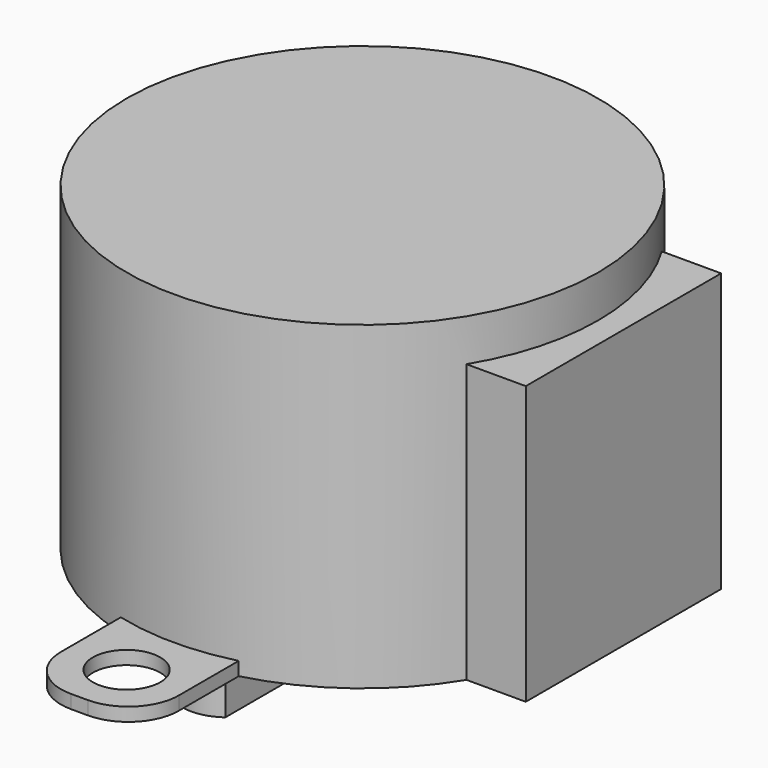
from build123d import *

# Parameters (mm, degrees)
CYLINDER017_R     = 2
CYLINDER017_DEPTH = 20
CYLINDER016_R     = 2
CYLINDER016_DEPTH = 20
CYLINDER019_R     = 4.5
CYLINDER019_DEPTH = 19.5
BOX013_W          = 7
BOX013_H          = 42
BOX013_DEPTH      = 0.8
FILLET012_R       = 3
FILLET013_R       = 3
FILLET014_R       = 3
FILLET015_R       = 3
BOX012_W          = 10
BOX012_H          = 14.5
BOX012_DEPTH      = 16.5
CYLINDER015_R     = 14
CYLINDER015_DEPTH = 19
BOX014_W          = 10
BOX014_H          = 10
BOX014_DEPTH      = 10
BOX015_W          = 10
BOX015_H          = 10
BOX015_DEPTH      = 10
CYLINDER018_R     = 2.7
CYLINDER018_DEPTH = 28


with BuildPart() as cylinder017:
    # Cylinder017 → Cylinder017 (new body)
    with BuildSketch(Plane(origin=(0, -17.5, 14), x_dir=(1, 0, 0), z_dir=(0, 0, 1))):
        Circle(CYLINDER017_R)
    extrude(amount=CYLINDER017_DEPTH)


with BuildPart() as cylinder016:
    # Cylinder016 → Cylinder016 (new body)
    with BuildSketch(Plane(origin=(0, 17.5, 14), x_dir=(1, 0, 0), z_dir=(0, 0, 1))):
        Circle(CYLINDER016_R)
    extrude(amount=CYLINDER016_DEPTH)


with BuildPart() as shaft_boss003:
    # Cylinder019 → Cylinder019 (new body)
    with BuildSketch(Plane(origin=(-8, 0, 1), x_dir=(1, 0, 0), z_dir=(0, 0, 1))):
        Circle(CYLINDER019_R)
    extrude(amount=CYLINDER019_DEPTH)


with BuildPart() as fillet015:
    # Box013 → Box013 (new body)
    with BuildSketch(Plane(origin=(-3.5, -21, 18.2), x_dir=(1, 0, 0), z_dir=(0, 0, 1))):
        with Locations((3.5, 21)):
            Rectangle(BOX013_W, BOX013_H)
    extrude(amount=BOX013_DEPTH)

    # Fillet012
    fillet012_edges = [fillet015.edges().sort_by_distance(p)[0] for p in [
        (3.5, -21, 18.6),
    ]]
    fillet(fillet012_edges, radius=FILLET012_R)

    # Fillet013
    fillet013_edges = [fillet015.edges().sort_by_distance(p)[0] for p in [
        (-3.5, -21, 18.6),
    ]]
    fillet(fillet013_edges, radius=FILLET013_R)

    # Fillet014
    fillet014_edges = [fillet015.edges().sort_by_distance(p)[0] for p in [
        (-3.5, 21, 18.6),
    ]]
    fillet(fillet014_edges, radius=FILLET014_R)

    # Fillet015
    fillet015_edges = [fillet015.edges().sort_by_distance(p)[0] for p in [
        (3.5, 21, 18.6),
    ]]
    fillet(fillet015_edges, radius=FILLET015_R)


with BuildPart() as cube012:
    # Box012 → Box012 (new body)
    with BuildSketch(Plane(origin=(5.5, -7.25, 2.5), x_dir=(1, 0, 0), z_dir=(0, 0, 1))):
        with Locations((5, 7.25)):
            Rectangle(BOX012_W, BOX012_H)
    extrude(amount=BOX012_DEPTH)


with BuildPart() as motor_body003:
    # Cylinder015 → Cylinder015 (new body)
    with BuildSketch(Plane.XY):
        Circle(CYLINDER015_R)
    extrude(amount=CYLINDER015_DEPTH)

    # Fusion012: union Cube012
    add(cube012.part)

    # Fusion013: union Fillet015
    add(fillet015.part)

    # Fusion014: union shaft-boss003
    add(shaft_boss003.part)

    # Cut014: cut Cylinder016
    add(cylinder016.part, mode=Mode.SUBTRACT)

    # Cut015: cut Cylinder017
    add(cylinder017.part, mode=Mode.SUBTRACT)


with BuildPart() as cube014:
    # Box014 → Box014 (new body)
    with BuildSketch(Plane(origin=(-6.4, -5, 22.5), x_dir=(1, 0, 0), z_dir=(0, 0, 1))):
        with Locations((5, 5)):
            Rectangle(BOX014_W, BOX014_H)
    extrude(amount=BOX014_DEPTH)


with BuildPart() as cube015:
    # Box015 → Box015 (new body)
    with BuildSketch(Plane(origin=(-19.6, -5, 22.5), x_dir=(1, 0, 0), z_dir=(0, 0, 1))):
        with Locations((5, 5)):
            Rectangle(BOX015_W, BOX015_H)
    extrude(amount=BOX015_DEPTH)


with BuildPart() as obj1:
    # Cylinder018 → Cylinder018 (new body)
    with BuildSketch(Plane(origin=(-8, 0, 1), x_dir=(1, 0, 0), z_dir=(0, 0, 1))):
        Circle(CYLINDER018_R)
    extrude(amount=CYLINDER018_DEPTH)

    # Cut012: cut Cube015
    add(cube015.part, mode=Mode.SUBTRACT)

    # Cut013: cut Cube014
    add(cube014.part, mode=Mode.SUBTRACT)

    # Fusion015: union motor-body003
    add(motor_body003.part)


with BuildPart() as obj1_1:
    # Fusion015 placement: moved
    add(obj1.part.moved(Location((7.9, 7, 7))))


with BuildPart() as obj2:
    # Part__Mirroring: instance of obj1
    add(obj1_1.part.mirror(Plane(origin=(0, 0, 0), x_dir=(0, 1, 0), z_dir=(0, 0, 1))))


with BuildPart() as obj2_1:
    # Part__Mirroring placement: moved
    add(obj2.part.moved(Location((0, 0, 76))))


solid = obj2_1.part
